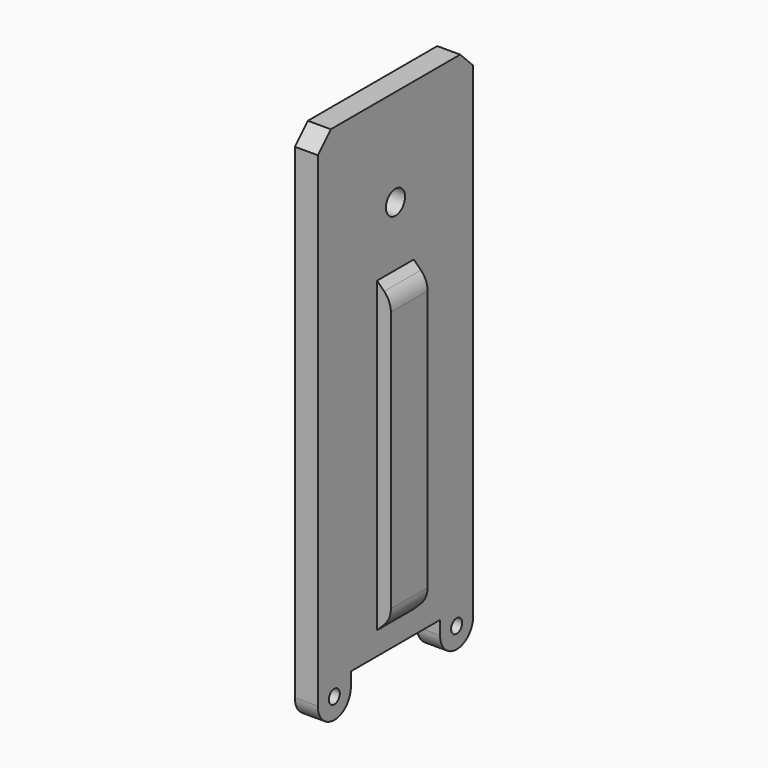
from build123d import *

# Parameters (mm, degrees)
SKETCH015_R   = 1.5
SKETCH015_R_2 = 2.6
PAD010_DEPTH  = 5
PAD017_DEPTH  = 5
FILLET003_R   = 5


with BuildPart() as part:
    # Sketch015 (on Face1 of Binder005) → Pad010 (new body)
    with BuildSketch(Plane(origin=(-223, 0, 0), x_dir=(0, -1, 0), z_dir=(-1, 0, 0))):
        with BuildLine():
            Line((-21.15, -85), (-21.15, -88))
            ThreePointArc((-21.15, -88), (-16.65, -92.5), (-12.15, -88))
            Line((-12.15, -88), (-12.15, -85))
            Line((-12.15, -85), (12.15, -85))
            Line((12.15, -85), (12.15, -88))
            ThreePointArc((12.15, -88), (16.65, -92.5), (21.15, -88))
            Line((21.15, -88), (21.15, -85))
            Line((21.15, -85), (21.15, 17.614466))
            Line((17.614466, 21.15), (21.15, 17.614466))
            Line((-17.614466, 21.15), (17.614466, 21.15))
            Line((-21.15, 17.614466), (-17.614466, 21.15))
            Line((-21.15, 17.614466), (-21.15, -85))
        make_face()
        with Locations((16.65, -88)):
            Circle(SKETCH015_R, mode=Mode.SUBTRACT)
        with Locations((-16.65, -88)):
            Circle(SKETCH015_R, mode=Mode.SUBTRACT)
        Circle(SKETCH015_R_2, mode=Mode.SUBTRACT)
    extrude(amount=PAD010_DEPTH)

    # Sketch043 (on DatumPlane) → Pad017 (join, symmetric)
    with BuildSketch(Plane(origin=(-224.666667, 0, -49.616667), x_dir=(1, 0, 0), z_dir=(0, -1, 0))):
        Polygon((1.666667, 36.616667), (4.666667, 33.616667), (4.666667, -27.383333), (1.666667, -30.383333), align=None)
    extrude(amount=PAD017_DEPTH, both=True)

    # Fillet003
    fillet003_edges = [part.edges().sort_by_distance(p)[0] for p in [
        (-220, 0, -16),
        (-220, 0, -77),
    ]]
    fillet(fillet003_edges, radius=FILLET003_R)


solid = part.part
